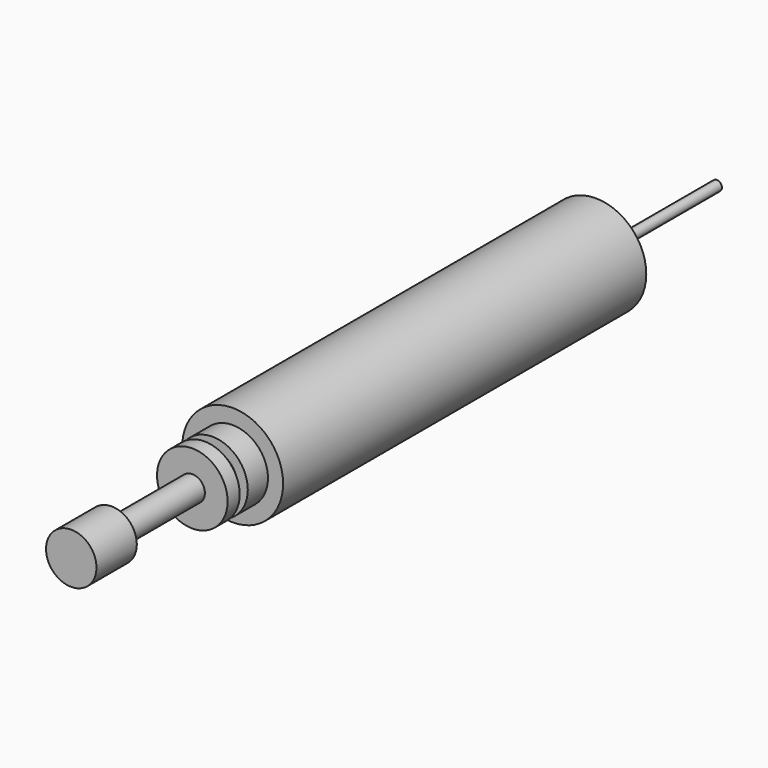
from build123d import *

# Parameters (mm, degrees)
F0_R      = 0.635
F1_DEPTH  = 19.05
F2_R      = 0.127
F3_DEPTH  = 25.4
F4_R      = 6.35
F4_R_2    = 0.635
F5_DEPTH  = 57.15
F6_R      = 4.445
F6_R_2    = 0.635
F7_DEPTH  = 55.88
F8_R      = 4.445
F9_DEPTH  = 3.175
F10_R     = 3.175
F11_DEPTH = 1.27
F12_R     = 4.445
F12_R_2   = 3.175
F13_DEPTH = 1.905
F14_R     = 1.5875
F15_DEPTH = 12.7
F16_R     = 3.175
F16_R_2   = 1.5875
F17_DEPTH = 6.35


with BuildPart() as f1:
    # F0 (on Front) → F1 (new body)
    with BuildSketch(Plane.XZ):
        Circle(F0_R)
    extrude(amount=F1_DEPTH)

    # F2 (on face) → F3 (cut)
    with BuildSketch(Plane.XZ.offset(19.05)):
        Circle(F2_R)
    extrude(amount=-F3_DEPTH, mode=Mode.SUBTRACT)


with BuildPart() as f5:
    # F4 (on face) → F5 (new body)
    with BuildSketch(Plane.XZ.offset(19.05)):
        Circle(F4_R)
        Circle(F4_R_2, mode=Mode.SUBTRACT)
    extrude(amount=F5_DEPTH)

    # F6 (on face) → F7 (cut)
    with BuildSketch(Plane.XZ.offset(76.2)):
        Circle(F6_R)
        Circle(F6_R_2, mode=Mode.SUBTRACT)
    extrude(amount=-F7_DEPTH, mode=Mode.SUBTRACT)


with BuildPart() as f9:
    # F8 (on face) → F9 (new body)
    with BuildSketch(Plane.XZ.offset(76.2)):
        Circle(F8_R)
    extrude(amount=F9_DEPTH)

    # F10 (on face) → F11 (join)
    with BuildSketch(Plane.XZ.offset(79.375)):
        Circle(F10_R)
    extrude(amount=F11_DEPTH)

    # F12 (on face) → F13 (join)
    with BuildSketch(Plane.XZ.offset(80.645)):
        Circle(F12_R)
        Circle(F12_R_2, mode=Mode.SUBTRACT)
        Circle(F12_R_2)
    extrude(amount=F13_DEPTH)

    # F14 (on face) → F15 (join)
    with BuildSketch(Plane.XZ.offset(82.55)):
        Circle(F14_R)
    extrude(amount=F15_DEPTH)


with BuildPart() as f17:
    # F16 (on face) → F17 (new body)
    with BuildSketch(Plane.XZ.offset(95.25)):
        Circle(F16_R)
        Circle(F16_R_2, mode=Mode.SUBTRACT)
        Circle(F16_R_2)
    extrude(amount=F17_DEPTH)


solid = Compound([f1.part, f5.part, f9.part, f17.part])
